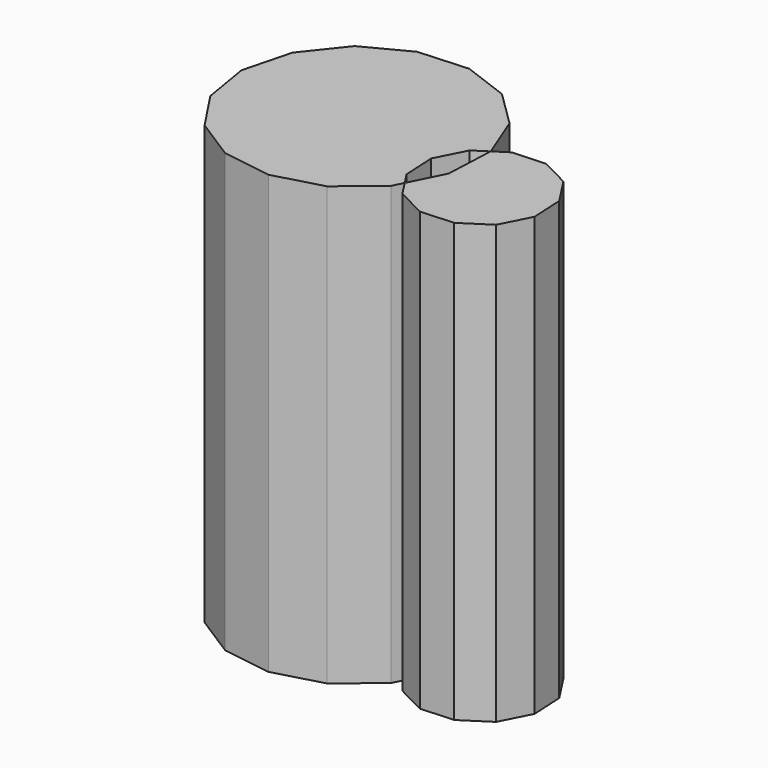
from build123d import *

# Parameters (mm, degrees)
F1_DEPTH = 127


with BuildPart() as f1:
    # F0 (on Top) → F1 (new body)
    with BuildSketch(Plane.XY):
        Polygon((36.751234, 15.953082), (47.899938, 25.139433), (49.442495, 28.231696), (47.120151, 31.809426), (46.621282, 41.366618), (50.967844, 49.892824), (54.981511, 52.498139), (49.689912, 65.939925), (39.388528, 76.06732), (25.858563, 81.129206), (11.43947, 80.250337), (-1.375558, 73.582676), (-10.370687, 62.279123), (-13.990576, 48.294165), (-11.609316, 34.045929), (-3.638646, 21.998063), (8.543232, 14.233753), (22.82996, 12.09552), align=None)
        Polygon((54.348361, 38.066168), (49.442495, 28.231696), (52.330781, 23.782091), (60.856987, 19.435529), (70.414179, 19.934398), (78.441514, 25.145028), (82.788076, 33.671234), (82.289206, 43.228426), (77.078577, 51.255761), (68.552371, 55.602323), (58.995179, 55.103453), (54.981511, 52.498139), align=None)
    extrude(amount=F1_DEPTH)


solid = f1.part
